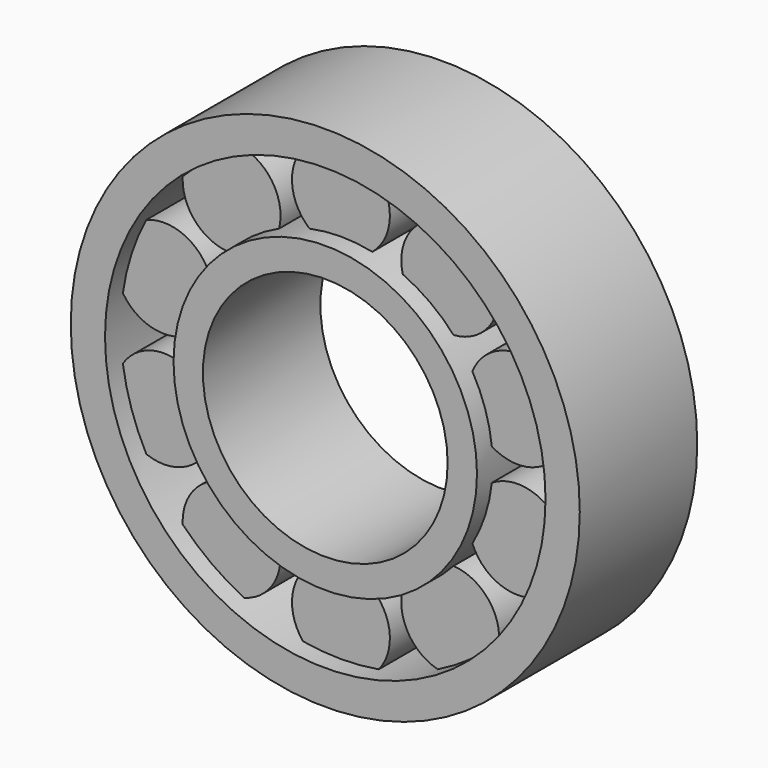
from build123d import *

# Parameters (mm, degrees)
F0_R     = 26
F0_R_2   = 22.5
F1_DEPTH = 7.5
F0_R_3   = 15.5
F0_R_4   = 12.5
F2_R     = 5
F3_DEPTH = 5.5
F4_COUNT = 10


with BuildPart() as f1:
    # F0 (on Front) → F1 (new body, symmetric)
    with BuildSketch(Plane.XZ):
        Circle(F0_R)
        Circle(F0_R_2, mode=Mode.SUBTRACT)
    extrude(amount=F1_DEPTH, both=True)



with BuildPart() as f1b:
    # F0 (on Front) → F1, piece 2 (new body, symmetric)
    with BuildSketch(Plane.XZ):
        Circle(F0_R_3)
        Circle(F0_R_4, mode=Mode.SUBTRACT)
    extrude(amount=F1_DEPTH, both=True)


with BuildPart() as f1_1:
    add(f1.part)

    add(f1b.part)  # F3 merges F1b
    # F2 (on Front) → F3 (join, symmetric)
    with BuildSketch(Plane.XZ):
        with Locations((0, 19)):
            Circle(F2_R)
    extrude(amount=F3_DEPTH, both=True)

    # F4: F1 ×10 about axis
    f4_axis = Axis((0, -7.5, 0), (0, -1, 0))


with BuildPart() as f1_2:
    add(f1_1.part)
    for i in range(1, F4_COUNT):
        add(f1_1.part.rotate(f4_axis, i * 360 / F4_COUNT))


solid = f1_2.part
